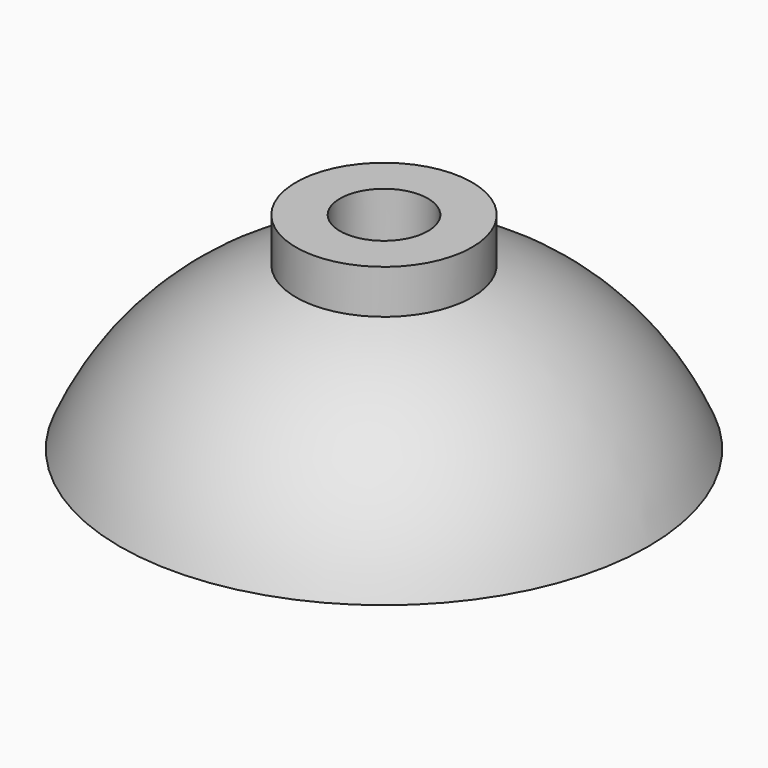
from build123d import *


with BuildPart() as f1:
    # F0 (on Front) → F1 (revolve)
    with BuildSketch(Plane.XZ):
        with BuildLine():
            Line((122.474487, 0), (150, 0))
            ThreePointArc((150, 0), (110.097051, 57.01941), (50, 92.116461))
            Line((50, 92.116461), (50, 117.116461))
            Line((50, 117.116461), (25, 117.116461))
            Line((25, 117.116461), (25, 72.708173))
            ThreePointArc((25, 72.708173), (82.211925, 47.715468), (122.474487, 0))
        make_face()
    revolve(axis=Axis((0, 0, 37.5), (0, 0, 1)))


solid = f1.part
